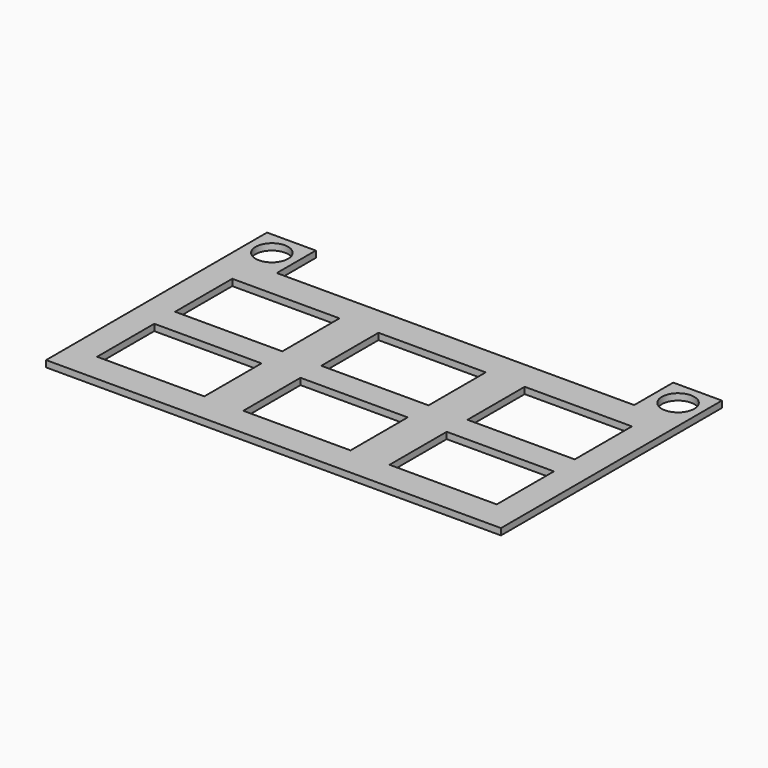
from build123d import *

# Parameters (mm, degrees)
F0_W     = 33
F0_H     = 22
F0_R     = 5
F1_DEPTH = 2


with BuildPart() as f1:
    # F0 (on Top) → F1 (new body)
    with BuildSketch(Plane.XY):
        Polygon((0, 70), (0, 0), (140, 0), (140, 70), (140, 85), (125, 85), (125, 70), (15, 70), (15, 85), (0, 85), align=None)
        with Locations((25, 20)):
            Rectangle(F0_W, F0_H, mode=Mode.SUBTRACT)
        with Locations((70, 20)):
            Rectangle(F0_W, F0_H, mode=Mode.SUBTRACT)
        with Locations((115, 20)):
            Rectangle(F0_W, F0_H, mode=Mode.SUBTRACT)
        with Locations((25, 50)):
            Rectangle(F0_W, F0_H, mode=Mode.SUBTRACT)
        with Locations((7.5, 77.5)):
            Circle(F0_R, mode=Mode.SUBTRACT)
        with Locations((70, 50)):
            Rectangle(F0_W, F0_H, mode=Mode.SUBTRACT)
        with Locations((115, 50)):
            Rectangle(F0_W, F0_H, mode=Mode.SUBTRACT)
        with Locations((132.5, 77.5)):
            Circle(F0_R, mode=Mode.SUBTRACT)
    extrude(amount=F1_DEPTH)


solid = f1.part
